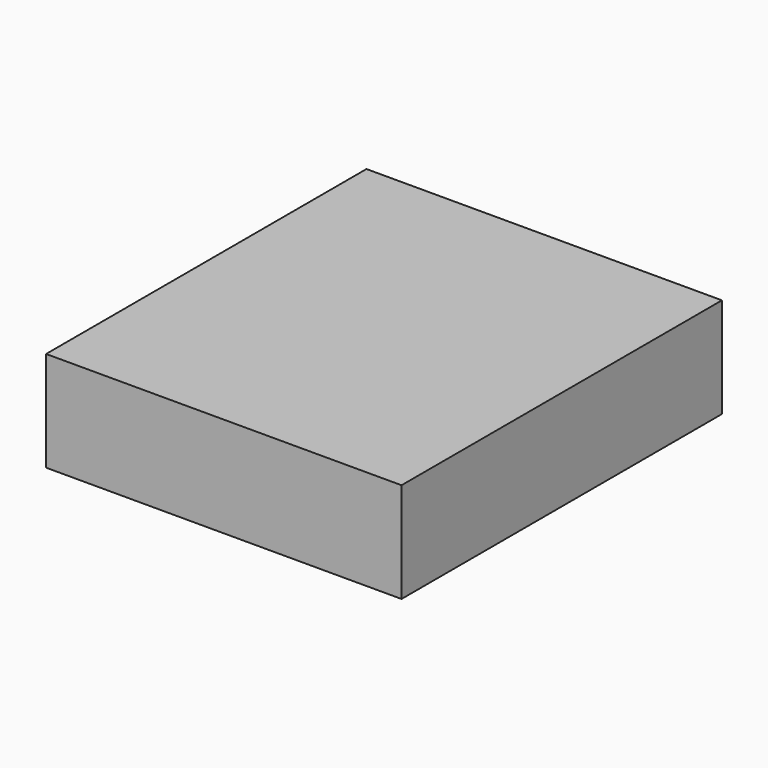
from build123d import *

# Parameters (mm, degrees)
F0_W     = 1065
F0_H     = 1200
F0_W_2   = 1041
F0_H_2   = 1176
F1_DEPTH = 300
F2_W     = 1065
F2_H     = 1200
F3_DEPTH = 12


with BuildPart() as f1:
    # F0 (on Top) → F1 (new body)
    with BuildSketch(Plane.XY):
        Rectangle(F0_W, F0_H)
        Rectangle(F0_W_2, F0_H_2, mode=Mode.SUBTRACT)
    extrude(amount=F1_DEPTH)

    # F2 (on face) → F3 (join)
    with BuildSketch(Plane.XY.offset(300)):
        Rectangle(F2_W, F2_H)
    extrude(amount=-F3_DEPTH)


solid = f1.part
